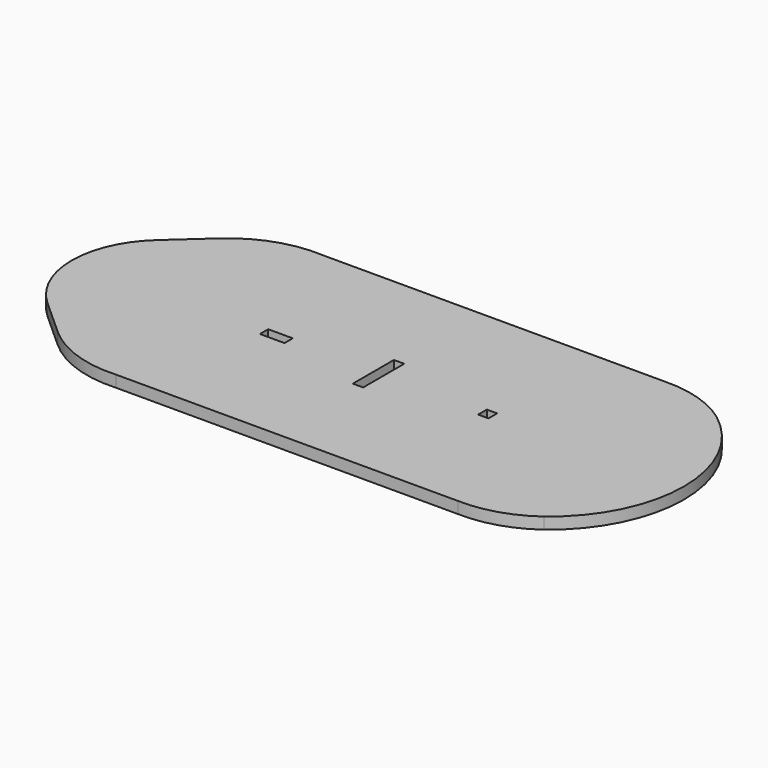
from build123d import *

# Parameters (mm, degrees)
F0_W     = 10
F0_H     = 4.2
F0_W_2   = 4.2
F0_H_2   = 4.413
F0_H_3   = 20.833439
F1_DEPTH = 4.7


with BuildPart() as f1:
    # F0 (on Top) → F1 (new body)
    with BuildSketch(Plane.XY):
        with BuildLine():
            Line((64.647796, -247.966312), (-74.155779, -247.966312))
            ThreePointArc((-74.155779, -247.966312), (-92.018545, -250.466108), (-107.45737, -259.791883))
            Line((-107.45737, -259.791883), (-121.830828, -272.74143))
            ThreePointArc((-121.830828, -272.74143), (-134.169875, -300.46631), (-121.830828, -328.191191))
            Line((-121.830828, -328.191191), (-107.45737, -341.140737))
            ThreePointArc((-107.45737, -341.140737), (-92.018545, -350.466513), (-74.155779, -352.966309))
            Line((-74.155779, -352.966309), (64.647796, -352.966309))
            ThreePointArc((64.647796, -352.966309), (79.384336, -350.969442), (92.668302, -344.284436))
            ThreePointArc((92.668302, -344.284436), (114.427186, -300.46631), (92.668302, -256.648185))
            ThreePointArc((92.668302, -256.648185), (79.384336, -249.963178), (64.647796, -247.966312))
        make_face()
        with Locations((-50.99257, -300.572956)):
            Rectangle(F0_W, F0_H, mode=Mode.SUBTRACT)
        with Locations((34.711947, -300.466456)):
            Rectangle(F0_W_2, F0_H_2, mode=Mode.SUBTRACT)
        with Locations((-9.590311, -300.46631)):
            Rectangle(F0_W_2, F0_H_3, mode=Mode.SUBTRACT)
    extrude(amount=F1_DEPTH)


solid = f1.part
